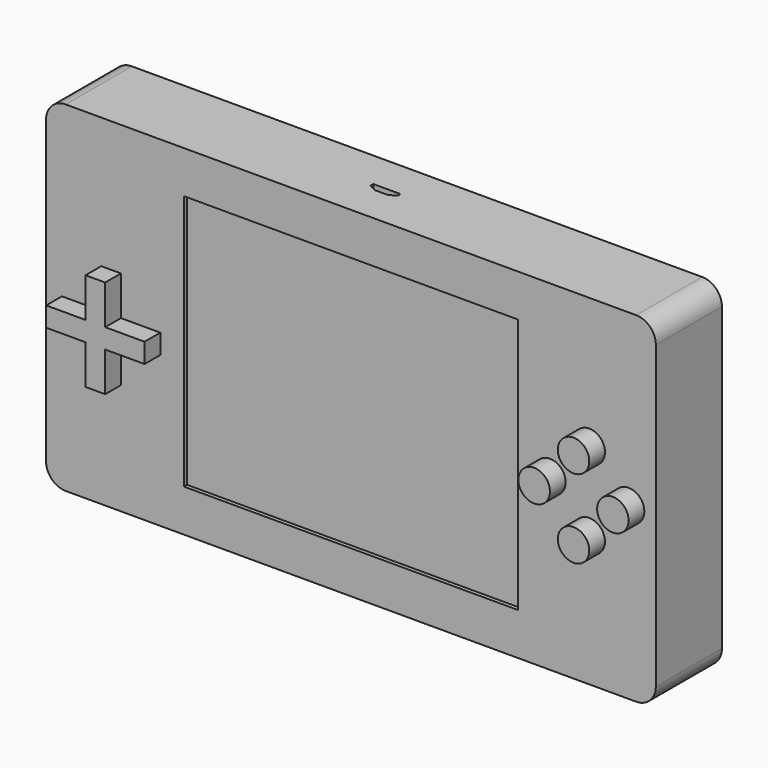
from build123d import *

# Parameters (mm, degrees)
F1_DEPTH = 21
F4_DEPTH = 5
F5_R     = 4
F6_DEPTH = 5
F2_W     = 85
F2_H     = 65
F7_DEPTH = 1
F9_DEPTH = 11


with BuildPart() as f1:
    # F0 (on Front) → F1 (new body)
    with BuildSketch(Plane.XZ):
        with BuildLine():
            Line((-72.5, -43.25), (72.5, -43.25))
            ThreePointArc((72.5, -43.25), (76.035534, -41.785534), (77.5, -38.25))
            Line((77.5, -38.25), (77.5, 38.25))
            ThreePointArc((77.5, 38.25), (76.035534, 41.785534), (72.5, 43.25))
            Line((72.5, 43.25), (-72.5, 43.25))
            ThreePointArc((-72.5, 43.25), (-76.035534, 41.785534), (-77.5, 38.25))
            Line((-77.5, 38.25), (-77.5, -38.25))
            ThreePointArc((-77.5, -38.25), (-76.035534, -41.785534), (-72.5, -43.25))
        make_face()
    extrude(amount=-F1_DEPTH)

    # F3 (on face) → F4 (join)
    with BuildSketch(Plane.XZ):
        Polygon((-48.470394, -5), (-48.470394, 0), (-58.470394, 0), (-58.470394, 10), (-63.470394, 10), (-63.470394, 0), (-73.470394, 0), (-73.470394, -5), (-63.470394, -5), (-63.470394, -15), (-58.470394, -15), (-58.470394, -5), align=None)
    extrude(amount=F4_DEPTH)

    # F5 (on Front) → F6 (join)
    with BuildSketch(Plane.XZ):
        with Locations((60.575662, 10)):
            Circle(F5_R)
        with Locations((70.575662, 0)):
            Circle(F5_R)
        with Locations((60.575662, -10)):
            Circle(F5_R)
        with Locations((50.575662, 0)):
            Circle(F5_R)
    extrude(amount=F6_DEPTH)

    # F2 (on face) → F7 (cut)
    with BuildSketch(Plane.XZ):
        Rectangle(F2_W, F2_H)
    extrude(amount=-F7_DEPTH, mode=Mode.SUBTRACT)

    # F8 (on face) → F9 (cut)
    with BuildSketch(Plane.XY.offset(43.25)):
        Polygon((-1.676761, 9.575), (1.676761, 9.575), (3.45, 10.5), (3.45, 11.425), (-3.45, 11.425), (-3.45, 10.5), align=None)
    extrude(amount=-F9_DEPTH, mode=Mode.SUBTRACT)


solid = f1.part
